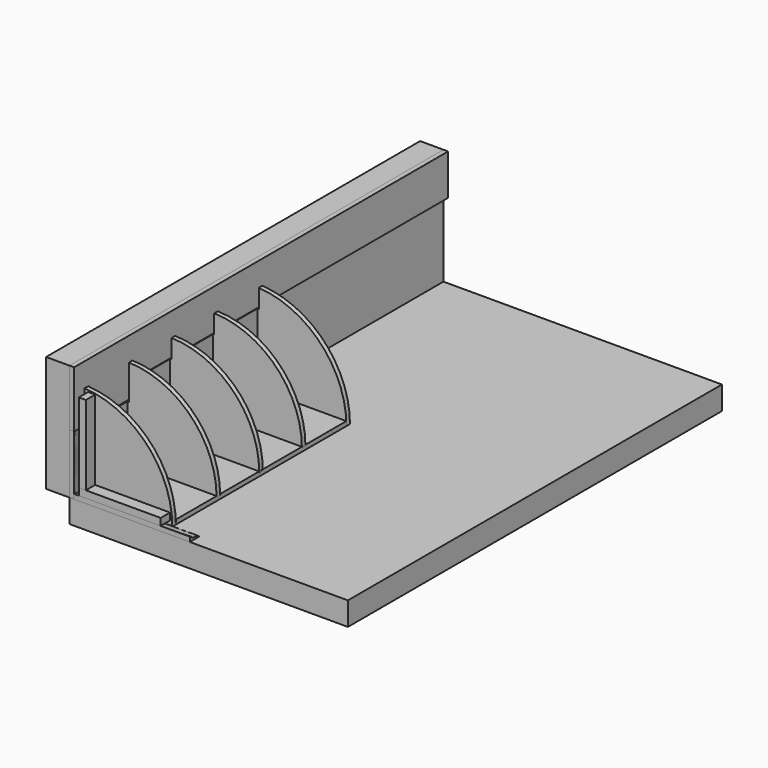
from build123d import *

# Parameters (mm, degrees)
SKETCH001_W                = 1191.1492
SKETCH001_H                = 2000
EXTRUDE_DEPTH              = 100
SKETCH002_W                = 2000
SKETCH002_H                = 497
EXTRUDE002_DEPTH           = 100
EXTRUDE003_DEPTH           = 20
EXTRUDE006_DEPTH           = 515
EXTRUDE007_DEPTH           = 263
EXTRUDE007_PLACEMENT_ANGLE = 90
EXTRUDE008_DEPTH           = 19
EXTRUDE009_DEPTH           = 19
EXTRUDE010_DEPTH           = 19
EXTRUDE011_DEPTH           = 19
EXTRUDE012_DEPTH           = 19
EXTRUDE013_DEPTH           = 19
BOX001_W                   = 386
BOX001_H                   = 20
BOX001_DEPTH               = 5
BOX002_W                   = 386
BOX002_H                   = 20
BOX002_DEPTH               = 5
BOX_W                      = 386
BOX_H                      = 20
BOX_DEPTH                  = 5
SKETCH_W                   = 400
SKETCH_H                   = 912
EXTRUDE001_DEPTH           = 19
BOX003_W                   = 350
BOX003_H                   = 50
BOX003_DEPTH               = 30
BOX004_W                   = 340
BOX004_H                   = 50
BOX004_DEPTH               = 30


with BuildPart() as extrude_body:
    # Sketch001 → Extrude (new body)
    with BuildSketch(Plane.XY):
        with Locations((595.5746, 1000)):
            Rectangle(SKETCH001_W, SKETCH001_H)
    extrude(amount=EXTRUDE_DEPTH)


with BuildPart() as extrude_body_1:
    # Extrude placement: moved
    add(extrude_body.part.moved(Location((0, 0, -100))))


with BuildPart() as wall_2_back:
    # Sketch002 → Extrude002 (new body)
    with BuildSketch(Plane.YZ):
        with Locations((1000, 248.328427)):
            Rectangle(SKETCH002_W, SKETCH002_H)
    extrude(amount=EXTRUDE002_DEPTH)


with BuildPart() as wall_2_back_1:
    # Extrude002 placement: moved
    add(wall_2_back.part.moved(Location((-100, 0, 0))))


with BuildPart() as connect:
    # Sketch003 → Extrude003 (new body)
    with BuildSketch(Plane.YZ):
        Polygon((-0.239416, 497.01891), (-0.239416, 255.01891), (321.756683, 256.603984), (321.756683, 322.01891), (1999.760584, 322.01891), (1999.760584, 497.01891), align=None)
    extrude(amount=EXTRUDE003_DEPTH)

    # Connect: union wall_2_back
    add(wall_2_back_1.part)


with BuildPart() as extrude006:
    # Sketch004 → Extrude006 (new body)
    with BuildSketch(Plane.YZ):
        with BuildLine():
            Line((50, 0), (0, 0))
            Line((0, 0), (0, 20))
            add(Edge.make_bspline(
                [(50, 0), (50, 2), (42.369346, 9), (7, 7.64212), (9, 19.461281), (0, 20)],
                knots=[0, 0, 0, 0, 0.333333, 0.666667, 1, 1, 1, 1], degree=3))
        make_face()
    extrude(amount=EXTRUDE006_DEPTH)


with BuildPart() as extrude007:
    # Sketch004 → Extrude007 (new body)
    with BuildSketch(Plane.YZ):
        with BuildLine():
            Line((50, 0), (0, 0))
            Line((0, 0), (0, 20))
            add(Edge.make_bspline(
                [(50, 0), (50, 2), (42.369346, 9), (7, 7.64212), (9, 19.461281), (0, 20)],
                knots=[0, 0, 0, 0, 0.333333, 0.666667, 1, 1, 1, 1], degree=3))
        make_face()
    extrude(amount=EXTRUDE007_DEPTH)


with BuildPart() as extrude007_1:
    # Extrude007 placement: moved
    add(extrude007.part.moved(Location((0, 0, 265))).rotate(Axis((0, 0, 265), (0, 1, 0)), EXTRUDE007_PLACEMENT_ANGLE))


with BuildPart() as extrude008:
    # Sketch005 → Extrude008 (new body)
    with BuildSketch(Plane.YZ):
        Polygon((68.991869, 18.966443), (68.991869, 251.966443), (325.991869, 251.966443), (325.991869, 318.966443), (980.991869, 318.966443), (980.991869, 18.966443), align=None)
    extrude(amount=EXTRUDE008_DEPTH)


with BuildPart() as bottom_plate:
    # Sketch006 → Extrude009 (new body)
    with BuildSketch(Plane.XZ):
        with BuildLine():
            ThreePointArc((400, 0), (291.547595, 273.861279), (25, 399.217986))
            Line((25, 250), (25, 399.217986))
            Line((0, 250), (25, 250))
            Line((0, 0), (0, 250))
            Line((400, 0), (0, 0))
        make_face()
    extrude(amount=EXTRUDE009_DEPTH)


with BuildPart() as bottom_plate_1:
    # Extrude009 placement: moved
    add(bottom_plate.part.moved(Location((0, 69, 0))))


with BuildPart() as top_plate:
    # Sketch007 → Extrude010 (new body)
    with BuildSketch(Plane.XZ):
        with BuildLine():
            ThreePointArc((400, 0), (291.547595, 273.861279), (25, 399.217986))
            Line((25, 319), (25, 399.217986))
            Line((0, 319), (25, 319))
            Line((0, 0), (0, 319))
            Line((400, 0), (0, 0))
        make_face()
    extrude(amount=EXTRUDE010_DEPTH)


with BuildPart() as top_plate_1:
    # Extrude010 placement: moved
    add(top_plate.part.moved(Location((0, 1000, 0))))


with BuildPart() as extrude011:
    # Sketch008 → Extrude011 (new body)
    with BuildSketch(Plane.XZ):
        with BuildLine():
            ThreePointArc((399.894913, 14.000049), (290.687541, 283.038784), (24.859467, 399.84429))
            Line((24.859467, 250), (24.859467, 399.84429))
            Line((13.894913, 250), (24.859467, 250))
            Line((13.894913, 14.000049), (13.894913, 250))
            Line((13.894913, 14.000049), (399.894913, 14.000049))
        make_face()
    extrude(amount=EXTRUDE011_DEPTH)


with BuildPart() as extrude011_1:
    # Extrude011 placement: moved
    add(extrude011.part.moved(Location((0, 306, 0))))


with BuildPart() as extrude012:
    # Sketch009 → Extrude012 (new body)
    with BuildSketch(Plane.XZ):
        with BuildLine():
            ThreePointArc((399.999828, 14), (290.804814, 283.026021), (24.999828, 399.843232))
            Line((24.999828, 319), (24.999828, 399.843232))
            Line((13.999828, 319), (24.999828, 319))
            Line((13.999828, 14), (13.999828, 319))
            Line((13.999828, 14), (399.999828, 14))
        make_face()
    extrude(amount=EXTRUDE012_DEPTH)


with BuildPart() as extrude012_1:
    # Extrude012 placement: moved
    add(extrude012.part.moved(Location((0, 534, 0))))


with BuildPart() as extrude013:
    # Sketch009 → Extrude013 (new body)
    with BuildSketch(Plane.XZ):
        with BuildLine():
            ThreePointArc((399.999828, 14), (290.804814, 283.026021), (24.999828, 399.843232))
            Line((24.999828, 319), (24.999828, 399.843232))
            Line((13.999828, 319), (24.999828, 319))
            Line((13.999828, 14), (13.999828, 319))
            Line((13.999828, 14), (399.999828, 14))
        make_face()
    extrude(amount=EXTRUDE013_DEPTH)


with BuildPart() as extrude013_1:
    # Extrude013 placement: moved
    add(extrude013.part.moved(Location((0, 762, 0))))


with BuildPart() as cube001:
    # Box001 → Box001 (new body)
    with BuildSketch(Plane(origin=(14, 515, 14), x_dir=(1, 0, 0), z_dir=(0, 0, 1))):
        with Locations((193, 10)):
            Rectangle(BOX001_W, BOX001_H)
    extrude(amount=BOX001_DEPTH)


with BuildPart() as cube002:
    # Box002 → Box002 (new body)
    with BuildSketch(Plane(origin=(14, 743, 14), x_dir=(1, 0, 0), z_dir=(0, 0, 1))):
        with Locations((193, 10)):
            Rectangle(BOX002_W, BOX002_H)
    extrude(amount=BOX002_DEPTH)


with BuildPart() as cube:
    # Box → Box (new body)
    with BuildSketch(Plane(origin=(17, 287, 14), x_dir=(1, 0, 0), z_dir=(0, 0, 1))):
        with Locations((193, 10)):
            Rectangle(BOX_W, BOX_H)
    extrude(amount=BOX_DEPTH)


with BuildPart() as cut:
    # Sketch → Extrude001 (new body)
    with BuildSketch(Plane.XY):
        with Locations((199.850132, 524.99065)):
            Rectangle(SKETCH_W, SKETCH_H)
    extrude(amount=EXTRUDE001_DEPTH)

    # Cut: cut Cube
    add(cube.part, mode=Mode.SUBTRACT)


with BuildPart() as box003:
    # Box003 → Box003 (new body)
    with BuildSketch(Plane(origin=(40, 0, 20), x_dir=(1, 0, 0), z_dir=(0, 0, 1))):
        with Locations((175, 25)):
            Rectangle(BOX003_W, BOX003_H)
    extrude(amount=BOX003_DEPTH)


with BuildPart() as box004:
    # Box004 → Box004 (new body)
    with BuildSketch(Plane(origin=(70, 0, 50), x_dir=(0, 0, 1), z_dir=(-1, 0, 0))):
        with Locations((170, 25)):
            Rectangle(BOX004_W, BOX004_H)
    extrude(amount=BOX004_DEPTH)


solid = Compound([extrude_body_1.part, connect.part, extrude006.part, extrude007_1.part, extrude008.part, bottom_plate_1.part, top_plate_1.part, extrude011_1.part, extrude012_1.part, extrude013_1.part, cube001.part, cube002.part, cut.part, box003.part, box004.part])
